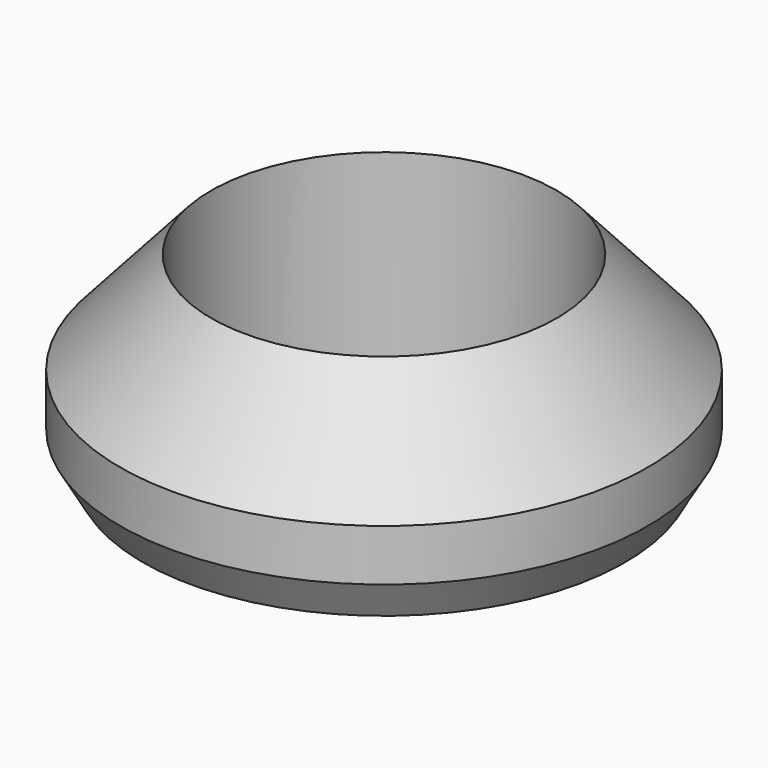
from build123d import *

# Parameters (mm, degrees)
F0_W     = 25.4
F0_H     = 25.4
F2_SIZE2 = 10.9985226281
F2_SIZE  = 6.35


with BuildPart() as f1:
    # F0 (on Right) → F1 (revolve)
    with BuildSketch(Plane.YZ):
        with Locations((12.7, 12.7)):
            Rectangle(F0_W, F0_H)
        Polygon((0, 53.7980633142), (0, 25.4), (25.4, 25.4), align=None)
    revolve(axis=Axis((0, -48.2432432473, 43.7458194792), (0, 0, 1)))

    # F2
    f2_edges = [f1.edges().sort_by_distance(p)[0] for p in [
        (0, -121.886486, 0),
    ]]
    chamfer(f2_edges, length=F2_SIZE, length2=F2_SIZE2)


solid = f1.part
